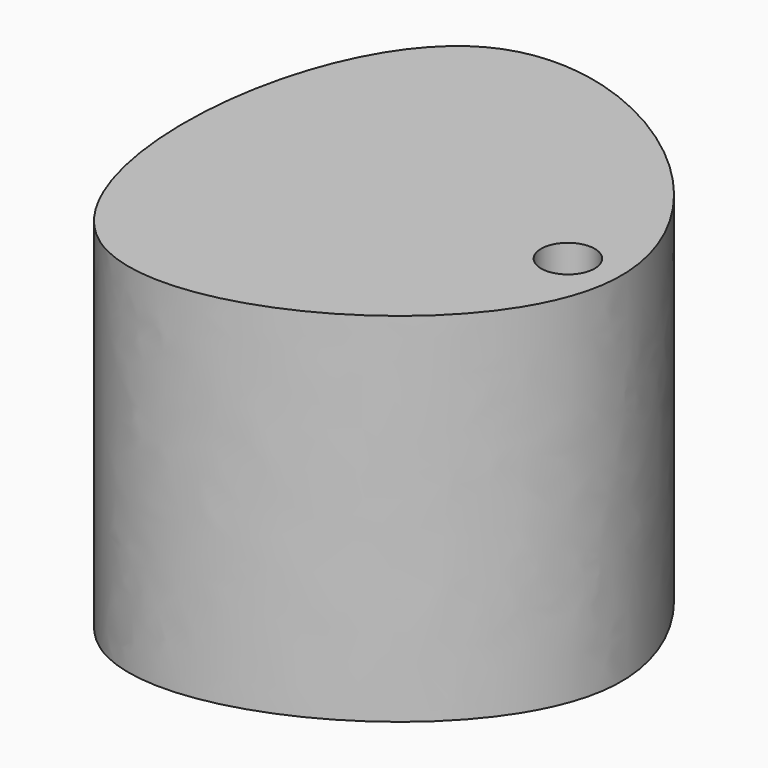
from build123d import *

# Parameters (mm, degrees)
F1_DEPTH = 25.4
F2_R     = 1.905
F3_DEPTH = 25.4


with BuildPart() as f1:
    # F0 (on Top) → F1 (new body)
    with BuildSketch(Plane.XY):
        with BuildLine():
            add(Edge.make_bspline(
                [(-23.6790960444, -14.1972824143), (-31.8504300551, -8.5683296883), (-28.8324842578, 33.854710218), (17.1695388017, -1.1244623065), (-15.9139406429, -19.5464325785), (-23.6790960444, -14.1972824143)],
                knots=[0, 0, 0, 0, 0.3447580991, 0.6723790495, 1, 1, 1, 1], degree=3))
        make_face()
    extrude(amount=-F1_DEPTH)

    # F2 (on face) → F3 (cut)
    with BuildSketch(Plane(origin=(0, 0, -25.4), x_dir=(1, 0, 0), z_dir=(0, 0, -1))):
        with Locations((-2.2007077932, -0.4829803947)):
            Circle(F2_R)
    extrude(amount=-F3_DEPTH, mode=Mode.SUBTRACT)


solid = f1.part
